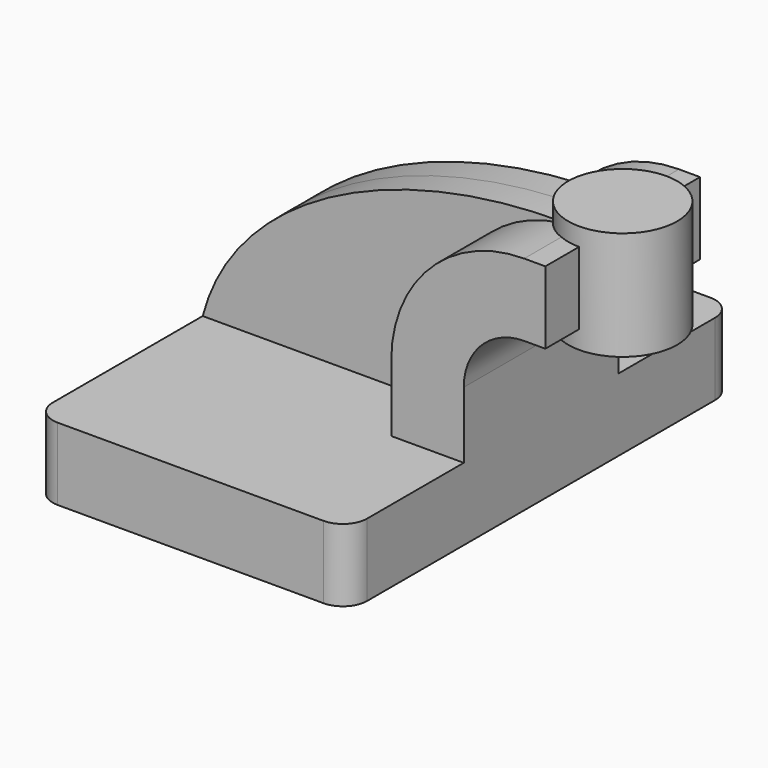
from build123d import *

# Parameters (mm, degrees)
F1_DEPTH = 63.5
F2_DEPTH = 25.4
F3_DEPTH = 7.9375
F5_R     = 6.35


with BuildPart() as f1:
    # F0 (on Front) → F1 (new body, symmetric)
    with BuildSketch(Plane.XZ):
        Polygon((22.225, 9.525), (-41.275, 9.525), (-41.275, -9.525), (41.275, -9.525), (41.275, 9.525), align=None)
    extrude(amount=F1_DEPTH, both=True)

    # F0 (on Front) → F2 (join, symmetric)
    with BuildSketch(Plane.XZ):
        with BuildLine():
            Line((22.225, 27.0002), (22.225, 9.525))
            Line((22.225, 9.525), (41.275, 9.525))
            Line((41.275, 9.525), (41.275, 27.0002))
            ThreePointArc((41.275, 27.0002), (45.92468, 38.22552), (57.15, 42.8752))
            Line((57.15, 42.8752), (62.697773, 42.8752))
            Line((62.697773, 42.8752), (62.697773, 61.9252))
            Line((62.697773, 61.9252), (57.15, 61.9252))
            ThreePointArc((57.15, 61.9252), (32.454296, 51.695904), (22.225, 27.0002))
        make_face()
    extrude(amount=F2_DEPTH, both=True)

    # F0 (on Front) → F3 (join, symmetric)
    with BuildSketch(Plane.XZ):
        with BuildLine():
            add(Edge.make_bspline(
                [(-41.275, 9.525), (-32.480557, 43.31116), (12.096889, 63.529342), (57.15, 61.9252)],
                knots=[0, 0, 0, 0, 111.504536, 111.504536, 111.504536, 111.504536], degree=3))
            Line((-41.275, 9.525), (22.225, 9.525))
            Line((22.225, 9.525), (22.225, 27.0002))
            ThreePointArc((22.225, 27.0002), (32.454296, 51.695904), (57.15, 61.9252))
        make_face()
    extrude(amount=F3_DEPTH, both=True)

    # F5
    f5_edges = [f1.edges().sort_by_distance(p)[0] for p in [
        (-41.275, -63.5, 0),
        (41.275, -63.5, 0),
        (41.275, 63.5, 0),
        (-41.275, 63.5, 0),
    ]]
    fillet(f5_edges, radius=F5_R)


with BuildPart() as f4:
    # F0 (on Front) → F4 (revolve)
    with BuildSketch(Plane.XZ):
        Polygon((62.697773, 66.675), (62.697773, 61.9252), (62.697773, 42.8752), (62.697773, 38.1), (77.01204, 38.1), (77.01204, 66.675), align=None)
    revolve(axis=Axis((62.697773, 0, 52.3875), (0, 0, -1)))


solid = Compound([f1.part, f4.part])
